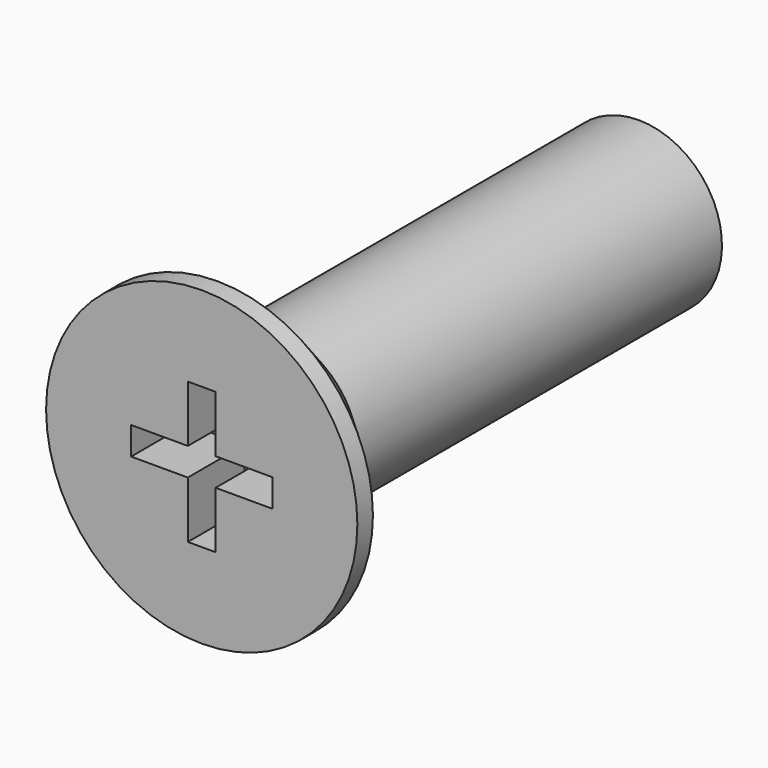
from build123d import *

# Parameters (mm, degrees)
POCKET_DEPTH = 1.27


with BuildPart() as part:
    # Sketch → Revolution (revolve)
    with BuildSketch(Plane.YZ):
        Polygon((0, 0), (0, 2.8), (0.35, 2.8), (1.65, 1.5), (9.823908, 1.5), (10, 1.195), (10, 0), align=None)
    revolve(axis=Axis((0, 0, 0), (0, 1, 0)))

    # Sketch001 → Pocket (cut)
    with BuildSketch(Plane(origin=(0, 0, 0), x_dir=(0, 0, -1), z_dir=(0, -1, 0))):
        Polygon((-1.27, 0.25), (-0.25, 0.25), (-0.25, 1.27), (0.25, 1.27), (0.25, 0.25), (1.27, 0.25), (1.27, -0.25), (0.25, -0.25), (0.25, -1.27), (-0.25, -1.27), (-0.25, -0.25), (-1.27, -0.25), align=None)
    extrude(amount=-POCKET_DEPTH, mode=Mode.SUBTRACT)


solid = part.part
